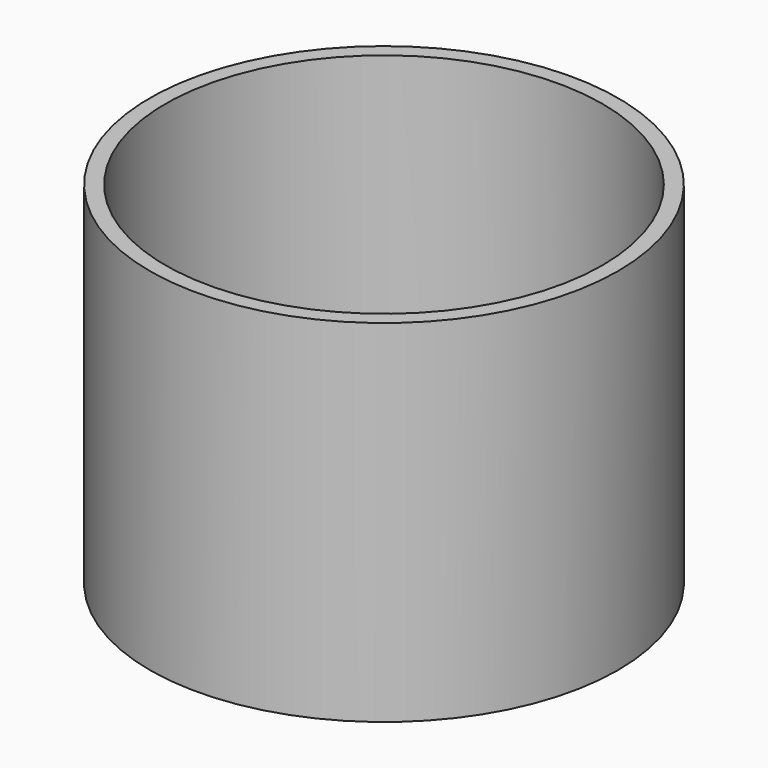
from build123d import *

# Parameters (mm, degrees)
F0_R     = 30
F0_R_2   = 28
F1_DEPTH = 45
F2_DEPTH = 43


with BuildPart() as f1:
    # F0 (on Top) → F1 (new body)
    with BuildSketch(Plane.XY):
        Circle(F0_R)
        Circle(F0_R_2, mode=Mode.SUBTRACT)
        Circle(F0_R_2)
    extrude(amount=-F1_DEPTH)

    # F0 (on Top) → F2 (cut)
    with BuildSketch(Plane.XY):
        Circle(F0_R_2)
    extrude(amount=-F2_DEPTH, mode=Mode.SUBTRACT)


solid = f1.part
